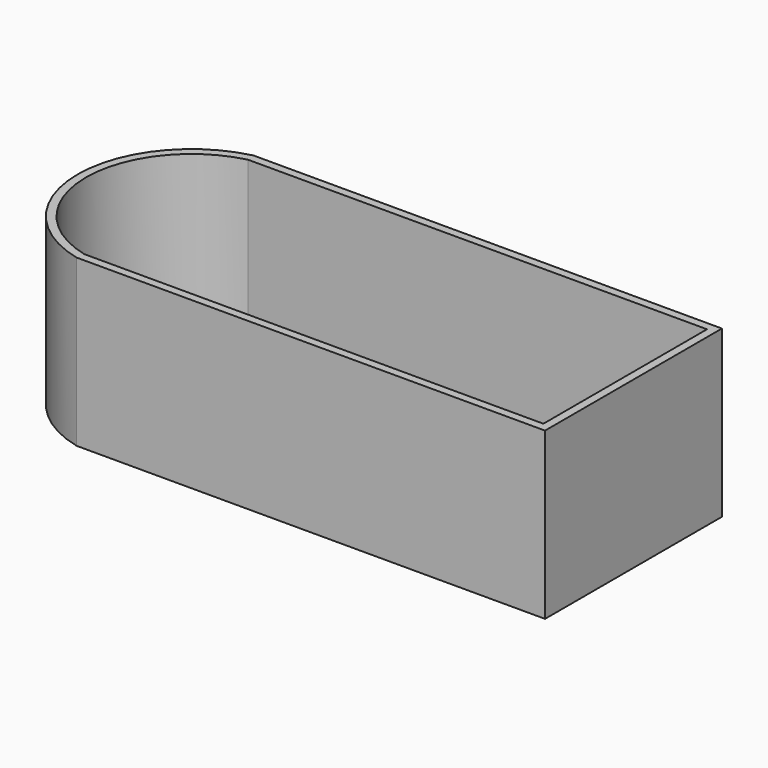
from build123d import *

# Parameters (mm, degrees)
F1_DEPTH = 50.8
F2_T     = -2.54


with BuildPart() as f1:
    # F0 (on Top) → F1 (new body)
    with BuildSketch(Plane.XY):
        with BuildLine():
            Line((71.33154, 17.38706), (-72.223172, 17.38706))
            ThreePointArc((-72.223172, 17.38706), (-98.990059, -16.495419), (-72.223172, -50.377898))
            Line((-72.223172, -50.377898), (71.33154, -50.377898))
            Line((71.33154, -50.377898), (71.33154, 17.38706))
        make_face()
    extrude(amount=F1_DEPTH)

    # F2
    f2_openings = [f1.faces().sort_by_distance(p)[0] for p in [
        (-10.546065, -16.495419, 50.8),
    ]]
    offset(amount=F2_T, openings=f2_openings)


solid = f1.part
